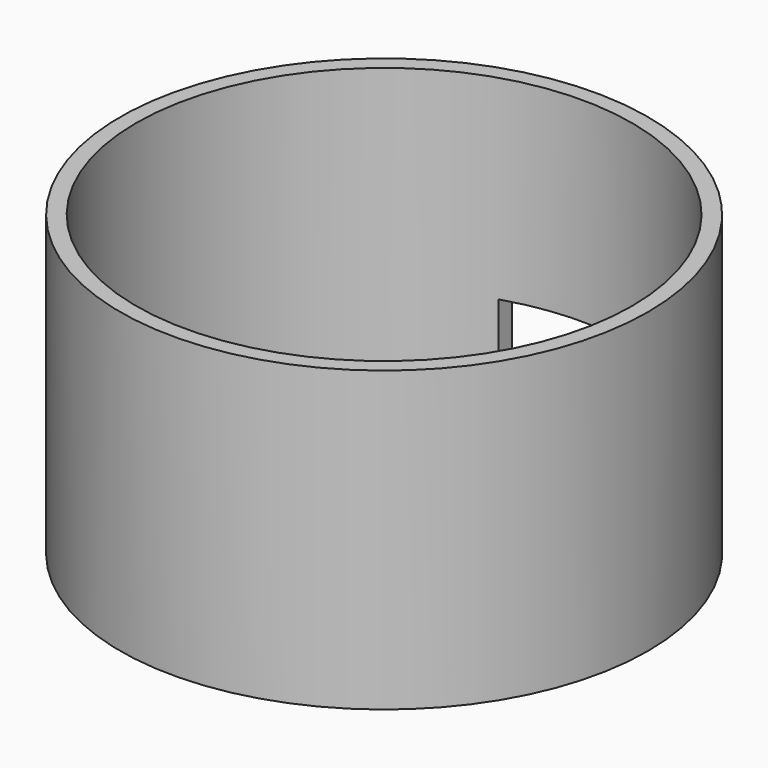
from build123d import *

# Parameters (mm, degrees)
BOX_W         = 13
BOX_H         = 10
BOX_DEPTH     = 8
SKETCH_R      = 23
PAD_DEPTH     = 1
SKETCH001_R   = 23
SKETCH001_R_2 = 21.6
PAD001_DEPTH  = 25


with BuildPart() as usb:
    # Box → Box (new body)
    with BuildSketch(Plane(origin=(-6.5, 16, 1), x_dir=(1, 0, 0), z_dir=(0, 0, 1))):
        with Locations((6.5, 5)):
            Rectangle(BOX_W, BOX_H)
    extrude(amount=BOX_DEPTH)


with BuildPart() as cut:
    # Sketch → Pad (new body)
    with BuildSketch(Plane.XY):
        Circle(SKETCH_R)
    extrude(amount=PAD_DEPTH)

    # Sketch001 (on Face3 of Pad) → Pad001 (join)
    with BuildSketch(Plane.XY.offset(1)):
        Circle(SKETCH001_R)
        Circle(SKETCH001_R_2, mode=Mode.SUBTRACT)
    extrude(amount=PAD001_DEPTH)

    # Cut: cut USB
    add(usb.part, mode=Mode.SUBTRACT)


solid = cut.part
